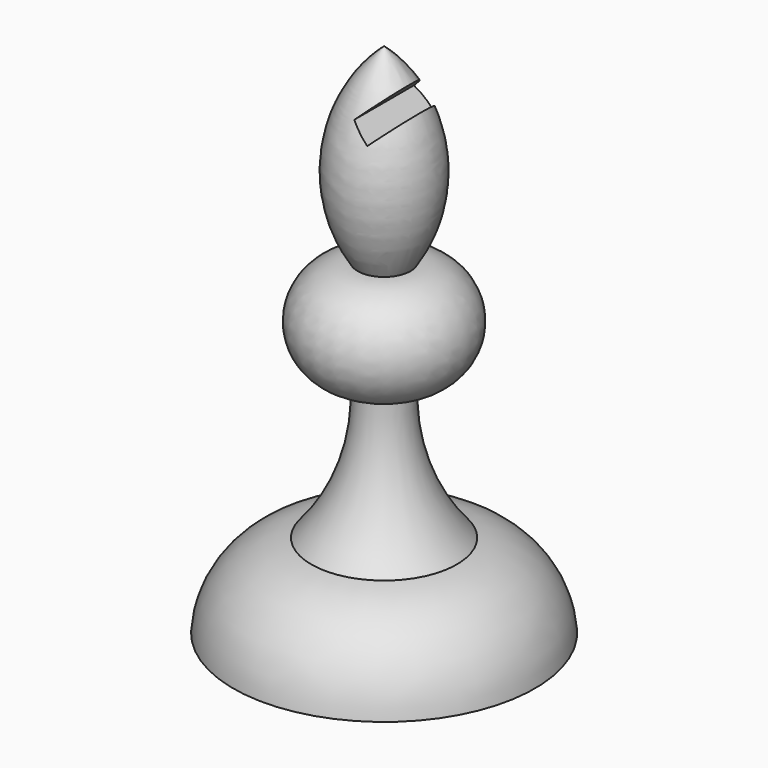
from build123d import *

# Parameters (mm, degrees)
F3_DEPTH = 12.7


with BuildPart() as f2:
    # F0 (on Front) → F2 (revolve)
    with BuildSketch(Plane.XZ):
        with BuildLine():
            Line((-13.5641247034, 0), (0, 0))
            Line((0, 0), (0, 46.4662872255))
            ThreePointArc((0, 46.4662872255), (-4.4015908808, 38.391616722), (-2.382886596, 29.4194854796))
            ThreePointArc((-2.382886596, 29.4194854796), (-7.1157737157, 24.6865983599), (-2.382886596, 19.9537112402))
            ThreePointArc((-2.382886596, 19.9537112402), (-3.2290141619, 13.334336779), (-6.5437768224, 7.5425841409))
            ThreePointArc((-6.5437768224, 7.5425841409), (-11.3982966721, 5.0225576552), (-13.5641247034, 0))
        make_face()
    revolve(axis=Axis((0, 0, 23.2331436127), (0, 0, -1)))

    # F1 (on Front) → F3 (cut, symmetric)
    with BuildSketch(Plane.XZ):
        Polygon((1.416193787, 40.4949188232), (4.871617537, 43.7583737075), (3.2665874051, 45.0795280268), (0, 41.9944185313), align=None)
    extrude(amount=F3_DEPTH, both=True, mode=Mode.SUBTRACT)


solid = f2.part
